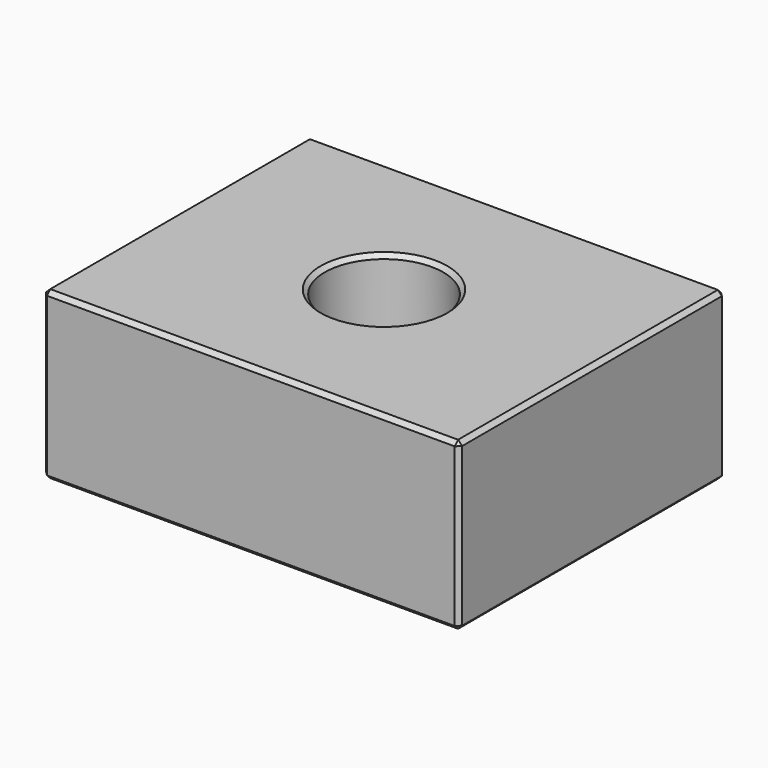
from build123d import *

# Parameters (mm, degrees)
F0_W           = 50
F0_H           = 40
F1_DEPTH       = 20
F3_D           = 8.8
F3_CBORE_D     = 14.25
F3_CBORE_DEPTH = 8
F4_SIZE        = 0.5


with BuildPart() as f1:
    # F0 (on Top) → F1 (new body)
    with BuildSketch(Plane.XY):
        Rectangle(F0_W, F0_H)
    extrude(amount=F1_DEPTH)

    # F3 (through all)
    with Locations(Plane.XY.offset(20)):
        with Locations((0, 0)):
            CounterBoreHole(F3_D / 2, F3_CBORE_D / 2, F3_CBORE_DEPTH)

    # F4
    f4_edges = [f1.edges().sort_by_distance(p)[0] for p in [
        (25, 0, 20),
        (0, -20, 20),
        (0, 20, 20),
        (-25, 0, 20),
        (-7.125, 0, 20),
        (-25, 20, 10),
        (-25, -20, 10),
        (-25, 0, 0),
        (25, 20, 10),
        (0, 20, 0),
        (25, -20, 10),
        (0, -20, 0),
        (25, 0, 0),
    ]]
    chamfer(f4_edges, length=F4_SIZE)


solid = f1.part
